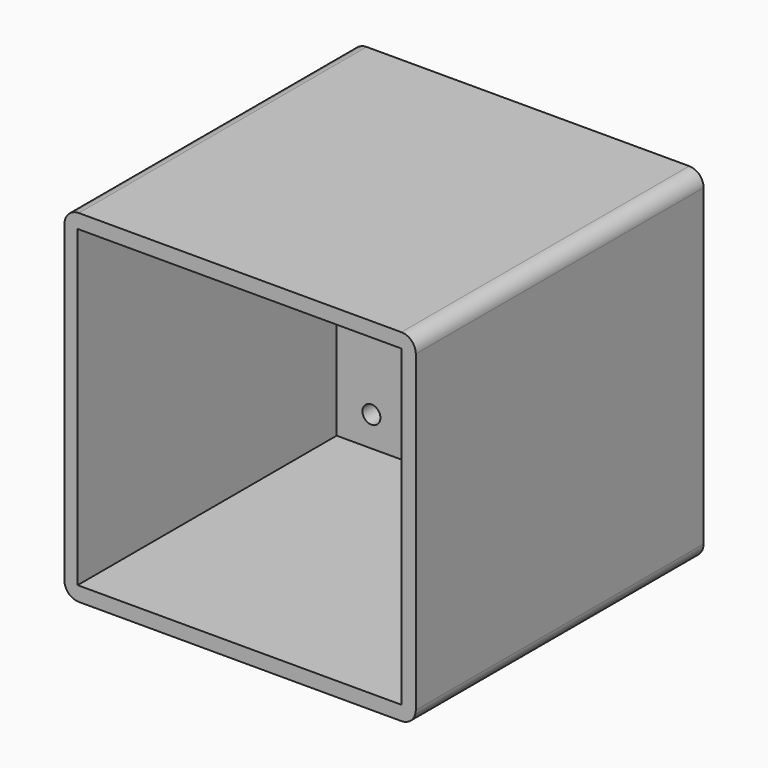
from build123d import *

# Parameters (mm, degrees)
F2_W     = 48.837749362
F2_H     = 47.5878509101
F2_W_2   = 45
F2_H_2   = 43.5878502545
F2_R     = 1.25
F2_R_2   = 15.75
F3_DEPTH = 5
F4_DEPTH = 50
F5_R     = 2


with BuildPart() as f3:
    # F2 (on Front) → F3 (new body)
    with BuildSketch(Plane.XZ):
        with Locations((0.0811256468, 0)):
            Rectangle(F2_W, F2_H)
        Rectangle(F2_W_2, F2_H_2, mode=Mode.SUBTRACT)
        Rectangle(F2_W_2, F2_H_2)
        with Locations((-17.6653114055, -17.6373357058)):
            Circle(F2_R, mode=Mode.SUBTRACT)
        Circle(F2_R_2, mode=Mode.SUBTRACT)
        with Locations((17.6900276539, 17.7180033535)):
            Circle(F2_R, mode=Mode.SUBTRACT)
    extrude(amount=F3_DEPTH)

    # F2 (on Front) → F4 (join)
    with BuildSketch(Plane.XZ):
        with Locations((0.0811256468, 0)):
            Rectangle(F2_W, F2_H)
        Rectangle(F2_W_2, F2_H_2, mode=Mode.SUBTRACT)
    extrude(amount=F4_DEPTH)

    # F5
    f5_edges = [f3.edges().sort_by_distance(p)[0] for p in [
        (-24.337749, -25, 23.793925),
        (24.5, -25, 23.793925),
        (24.5, -25, -23.793925),
        (-24.337749, -25, -23.793925),
    ]]
    fillet(f5_edges, radius=F5_R)


solid = f3.part
